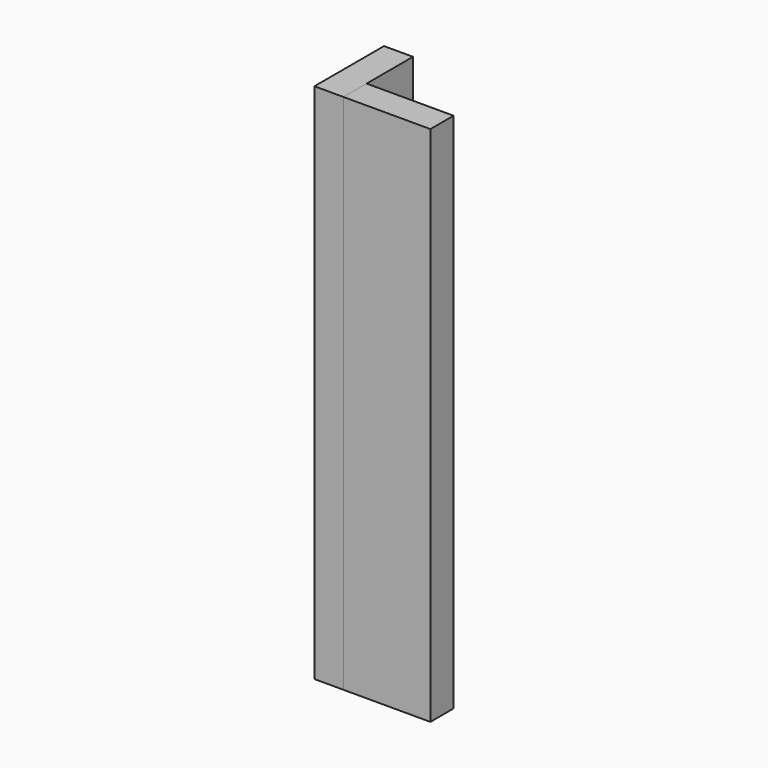
from build123d import *

# Parameters (mm, degrees)
F0_W     = 152.4
F0_H     = 50.8
F1_DEPTH = 914.4
F2_DEPTH = 914.4


with BuildPart() as f1:
    # F0 (on Top) → F1 (new body)
    with BuildSketch(Plane.XY):
        with Locations((76.2, -25.4)):
            Rectangle(F0_W, F0_H)
    extrude(amount=-F1_DEPTH)


with BuildPart() as f2:
    # F0 (on Top) → F2 (new body)
    with BuildSketch(Plane.XY):
        Polygon((0, -50.8), (0, 0), (0, 101.6), (-50.8, 101.6), (-50.8, -50.8), align=None)
    extrude(amount=-F2_DEPTH)


solid = Compound([f1.part, f2.part])
